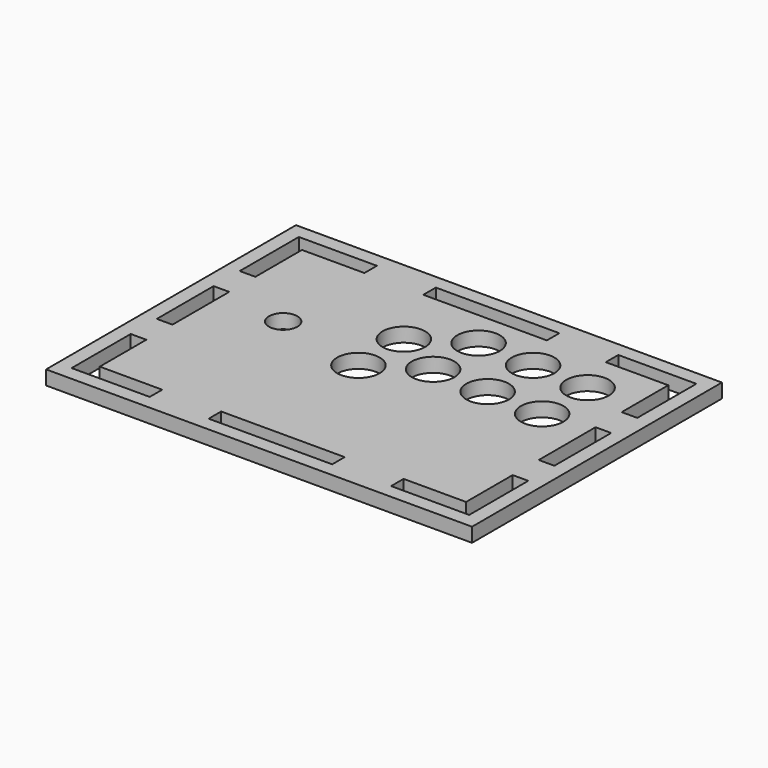
from build123d import *

# Parameters (mm, degrees)
F0_R     = 10
F0_R_2   = 15
F1_DEPTH = 10
F3_DEPTH = 10
F4_W     = 87
F4_H     = 11
F5_DEPTH = 10
F6_W     = 11
F6_H     = 50
F7_DEPTH = 10


with BuildPart() as f1:
    # F0 (on Top) → F1 (new body)
    with BuildSketch(Plane.XY):
        Polygon((150, 110), (-150, 110), (-150, -110), (-69, -110), (150, -110), align=None)
        with Locations((-83.840104, 16.042637)):
            Circle(F0_R, mode=Mode.SUBTRACT)
        with Locations((-18.840104, 1.042637)):
            Circle(F0_R_2, mode=Mode.SUBTRACT)
        with Locations((-18.840104, 41.042637)):
            Circle(F0_R_2, mode=Mode.SUBTRACT)
        with Locations((16.159896, 23.042637)):
            Circle(F0_R_2, mode=Mode.SUBTRACT)
        with Locations((56.159896, 21.042637)):
            Circle(F0_R_2, mode=Mode.SUBTRACT)
        with Locations((96.159896, 19.042637)):
            Circle(F0_R_2, mode=Mode.SUBTRACT)
        with Locations((16.159896, 63.042637)):
            Circle(F0_R_2, mode=Mode.SUBTRACT)
        with Locations((56.159896, 61.042637)):
            Circle(F0_R_2, mode=Mode.SUBTRACT)
        with Locations((96.159896, 59.042637)):
            Circle(F0_R_2, mode=Mode.SUBTRACT)
    extrude(amount=F1_DEPTH)

    # F2 (on face) → F3 (cut)
    with BuildSketch(Plane.XY.offset(10)):
        Polygon((140, 48), (140, 100), (85, 100), (85, 89), (129, 89), (129, 48), align=None)
        Polygon((-85, 100), (-140, 100), (-140, 48), (-129, 48), (-129, 89), (-85, 89), align=None)
        Polygon((-140, -48), (-140, -100), (-85, -100), (-85, -89), (-129, -89), (-129, -48), align=None)
        Polygon((85, -100), (140, -100), (140, -48), (129, -48), (129, -89), (85, -89), align=None)
    extrude(amount=-F3_DEPTH, mode=Mode.SUBTRACT)

    # F4 (on face) → F5 (cut)
    with BuildSketch(Plane.XY.offset(10)):
        with Locations((0, 94.5)):
            Rectangle(F4_W, F4_H)
        with Locations((0, -94.5)):
            Rectangle(F4_W, F4_H)
    extrude(amount=-F5_DEPTH, mode=Mode.SUBTRACT)

    # F6 (on face) → F7 (cut)
    with BuildSketch(Plane.XY.offset(10)):
        with Locations((-134.5, 0)):
            Rectangle(F6_W, F6_H)
        Polygon((140, -25), (140, 0), (140, 25), (129, 25), (129, -25), align=None)
    extrude(amount=-F7_DEPTH, mode=Mode.SUBTRACT)


solid = f1.part
